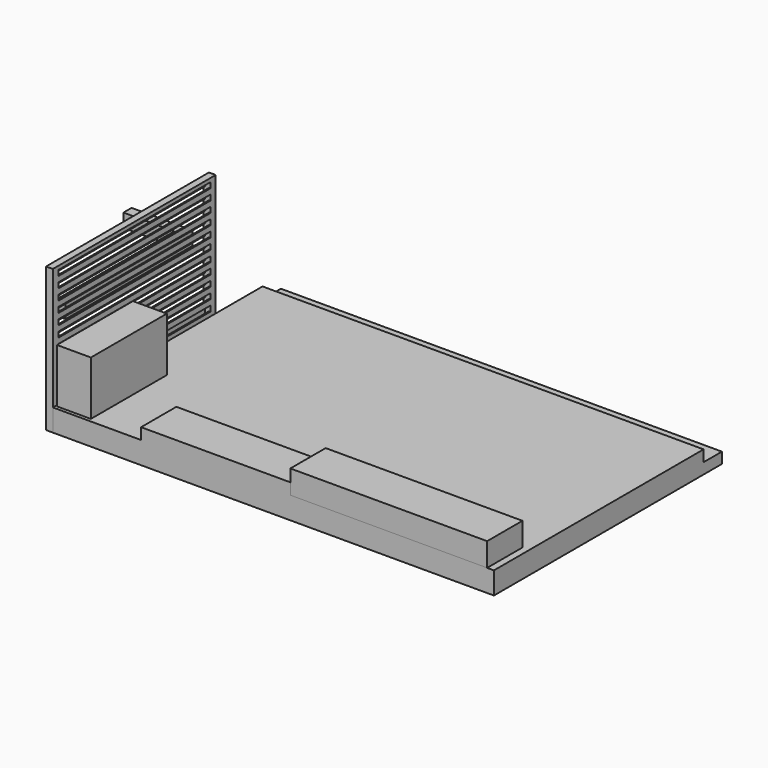
from build123d import *

# Parameters (mm, degrees)
F2_DEPTH       = 200
F8_W           = 2200
F8_H           = 650
F9_DEPTH       = 493.3333333333
F12_DEPTH      = 326.6666666667
F13_W          = 6500
F13_H          = 337.7816200256
F14_DEPTH      = 160
F16_DEPTH      = 180
F16_DEPTH_BACK = 166.6666666667
F17_W          = 100
F17_H          = 3000
F18_DEPTH      = 493.3333333333
F18_DEPTH_BACK = 1630
F15_W          = 500
F15_H          = 1400
F19_DEPTH      = 630
F19_DEPTH_BACK = 166.6666666667
F22_START      = -100
F21_W          = 20
F21_H          = 80
F22_DEPTH      = 2800


with BuildPart() as f2:
    # F1 (on Top) → F2 (new body)
    with BuildSketch(Plane.XY):
        Polygon((-1200, 4200), (-2100, 4200), (-2100, 4050), (-1350, 4050), (-1350, 1860), (-1200, 1860), align=None)
    extrude(amount=-F2_DEPTH)


with BuildPart() as f9:
    # F8 (on Top) → F9 (new body, through all)
    with BuildSketch(Plane.XY):
        with Locations((2500, 325)):
            Rectangle(F8_W, F8_H)
    extrude(amount=-F9_DEPTH)

    # F11 (on offset) → F12 (join, through all)
    with BuildSketch(Plane.XY.offset(-166.6666666667)):
        Polygon((6600, 3862.2183799744), (100, 3862.2183799744), (100, 0), (1400, 0), (1400, 650), (3600, 650), (3600, 0), (6600, 0), align=None)
    extrude(amount=-F12_DEPTH)

    # F13 (on offset) → F14 (join)
    with BuildSketch(Plane.XY.offset(-333.3333333333)):
        with Locations((3350, 4031.1091899872)):
            Rectangle(F13_W, F13_H)
    extrude(amount=-F14_DEPTH)


with BuildPart() as f16:
    # F15 (on Top) → F16 (new body, two sides)
    with BuildSketch(Plane.XY) as f16_sk:
        Polygon((3600, 650), (3600, 0), (6500, 0), (6500, 650), (5870, 650), align=None)
    extrude(amount=F16_DEPTH)
    extrude(f16_sk.sketch, amount=-F16_DEPTH_BACK)


with BuildPart() as f18:
    # F17 (on Top) → F18 (new body, two sides)
    with BuildSketch(Plane.XY) as f18_sk:
        with Locations((50, 1500)):
            Rectangle(F17_W, F17_H)
    extrude(amount=-F18_DEPTH)
    extrude(f18_sk.sketch, amount=F18_DEPTH_BACK)

    # F21 (on face) → F22 (cut)
    with BuildSketch(Plane(origin=(0, 3000, 0), x_dir=(-1, 0, 0), z_dir=(0, 1, 0)).offset(F22_START)):
        Polygon((-20, 1590), (-80, 1590), (-80, 1575.9045648575), (-80, 1495.9045648575), (-80, 1415.9045648575), (-80, 1335.9045648575), (-80, 1255.9045648575), (-80, 1175.9045648575), (-80, 1095.9045648575), (-80, 1015.9045648575), (-80, 935.9045648575), (-80, 855.9045648575), (-80, 775.9045648575), (-80, 695.9045648575), (-80, 615.9045648575), (-80, 535.9045648575), (-80, 455.9045648575), (-80, 375.9045648575), (-80, 295.9045648575), (-80, 215.9045648575), (-80, 135.9045648575), (-80, 55.9045648575), (-80, -24.0954351425), (-80, -104.0954351425), (-80, -443.3333333333), (-20, -443.3333333333), (-20, -24.0954351425), (-20, 55.9045648575), (-20, 135.9045648575), (-20, 215.9045648575), (-20, 295.9045648575), (-20, 375.9045648575), (-20, 455.9045648575), (-20, 535.9045648575), (-20, 615.9045648575), (-20, 695.9045648575), (-20, 775.9045648575), (-20, 855.9045648575), (-20, 935.9045648575), (-20, 1015.9045648575), (-20, 1095.9045648575), (-20, 1175.9045648575), (-20, 1255.9045648575), (-20, 1335.9045648575), (-20, 1415.9045648575), (-20, 1495.9045648575), align=None)
        with Locations((-90, 1535.9045648575)):
            Rectangle(F21_W, F21_H)
        with Locations((-10, 1455.9045648575)):
            Rectangle(F21_W, F21_H)
        with Locations((-90, 1375.9045648575)):
            Rectangle(F21_W, F21_H)
        with Locations((-10, 1295.9045648575)):
            Rectangle(F21_W, F21_H)
        with Locations((-90, 1215.9045648575)):
            Rectangle(F21_W, F21_H)
        with Locations((-10, 1135.9045648575)):
            Rectangle(F21_W, F21_H)
        with Locations((-90, 1055.9045648575)):
            Rectangle(F21_W, F21_H)
        with Locations((-10, 975.9045648575)):
            Rectangle(F21_W, F21_H)
        with Locations((-90, 895.9045648575)):
            Rectangle(F21_W, F21_H)
        with Locations((-10, 815.9045648575)):
            Rectangle(F21_W, F21_H)
        with Locations((-90, 735.9045648575)):
            Rectangle(F21_W, F21_H)
        with Locations((-10, 655.9045648575)):
            Rectangle(F21_W, F21_H)
        with Locations((-90, 575.9045648575)):
            Rectangle(F21_W, F21_H)
        with Locations((-10, 495.9045648575)):
            Rectangle(F21_W, F21_H)
        with Locations((-90, 415.9045648575)):
            Rectangle(F21_W, F21_H)
        with Locations((-10, 335.9045648575)):
            Rectangle(F21_W, F21_H)
        with Locations((-90, 255.9045648575)):
            Rectangle(F21_W, F21_H)
        with Locations((-10, 175.9045648575)):
            Rectangle(F21_W, F21_H)
        with Locations((-90, 95.9045648575)):
            Rectangle(F21_W, F21_H)
        with Locations((-10, 15.9045648575)):
            Rectangle(F21_W, F21_H)
        with Locations((-90, -64.0954351425)):
            Rectangle(F21_W, F21_H)
    extrude(amount=-F22_DEPTH, mode=Mode.SUBTRACT)


with BuildPart() as f19:
    # F15 (on Top) → F19 (new body, two sides)
    with BuildSketch(Plane.XY) as f19_sk:
        with Locations((370, 750)):
            Rectangle(F15_W, F15_H)
    extrude(amount=F19_DEPTH)
    extrude(f19_sk.sketch, amount=-F19_DEPTH_BACK)


solid = Compound([f2.part, f9.part, f16.part, f18.part, f19.part])
